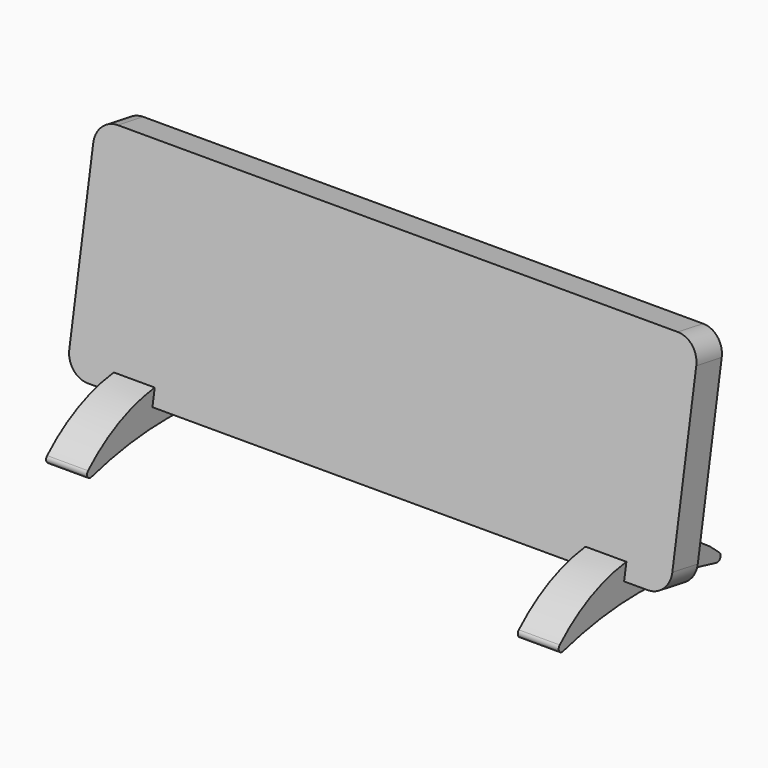
from build123d import *

# Parameters (mm, degrees)
F1_DEPTH = 88.9
F2_R     = 6.35
F5_DEPTH = 12.065


with BuildPart() as f1:
    # F0 (on Right) → F1 (new body, symmetric)
    with BuildSketch(Plane.YZ):
        Polygon((-0.823183, -32.094646), (10.203477, 30.440647), (0.823183, 32.094646), (-10.203477, -30.440647), align=None)
    extrude(amount=F1_DEPTH, both=True)

    # F2
    f2_edges = [f1.edges().sort_by_distance(p)[0] for p in [
        (88.9, 5.51333, 31.267646),
        (88.9, -5.51333, -31.267646),
        (-88.9, 5.51333, 31.267646),
        (-88.9, -5.51333, -31.267646),
    ]]
    fillet(f2_edges, radius=F2_R)


with BuildPart() as f5:
    # F4 (on offset) → F5 (new body)
    with BuildSketch(Plane.YZ.offset(63.5)):
        with BuildLine():
            ThreePointArc((-32.712606, -39.422522), (-4.478705, -35.56), (23.755195, -39.422522))
            ThreePointArc((23.755195, -39.422522), (25.198768, -38.829624), (24.977638, -37.284783))
            ThreePointArc((24.977638, -37.284783), (13.601463, -29.443255), (0.309491, -25.670935))
            Line((0.309491, -25.670935), (-0.823183, -32.094646))
            Line((-0.823183, -32.094646), (-10.203477, -30.440647))
            Line((-10.203477, -30.440647), (-9.36442, -25.68212))
            ThreePointArc((-9.36442, -25.68212), (-22.603266, -29.464186), (-33.935049, -37.284783))
            ThreePointArc((-33.935049, -37.284783), (-34.156179, -38.829624), (-32.712606, -39.422522))
        make_face()
    extrude(amount=F5_DEPTH)


with BuildPart() as f6_1:
    # F6: instance of F5
    add(f5.part.mirror(Plane.YZ))


solid = Compound([f1.part, f5.part, f6_1.part])
